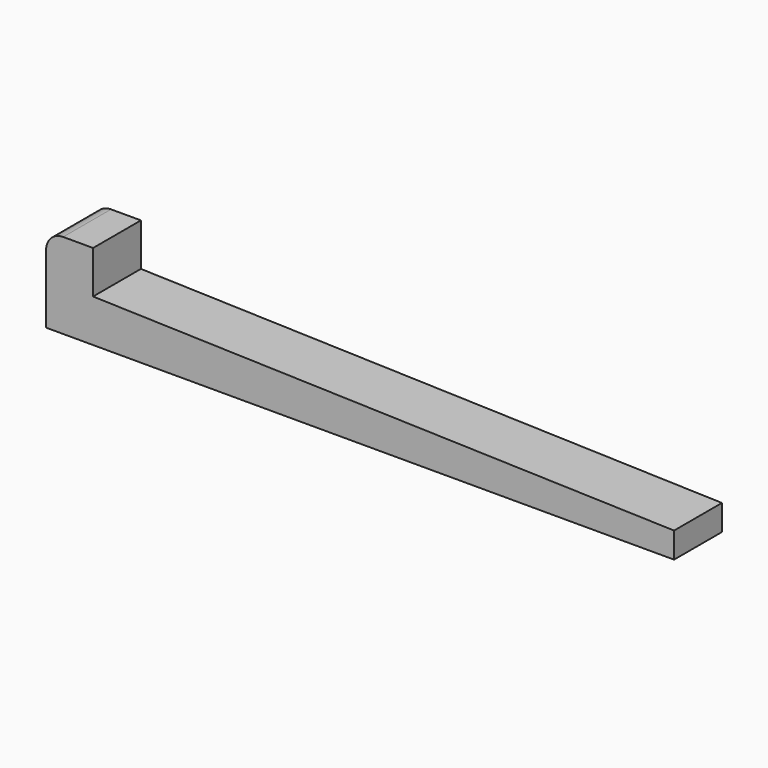
from build123d import *

# Parameters (mm, degrees)
F1_DEPTH = 11.1125


with BuildPart() as f1:
    # F0 (on Front) → F1 (new body, symmetric)
    with BuildSketch(Plane.XZ):
        with BuildLine():
            Line((-89.7438166836, 37.6072605039), (-89.7438166836, 12.2072605039))
            Line((-89.7438166836, 12.2072605039), (143.6186833164, 12.2072605039))
            Line((143.6186833164, 12.2072605039), (143.6186833164, 21.7322605039))
            Line((143.6186833164, 21.7322605039), (-72.2813166836, 28.0822605039))
            Line((-72.2813166836, 28.0822605039), (-72.2813166836, 43.9572605039))
            Line((-72.2813166836, 43.9572605039), (-83.3938166836, 43.9572605039))
            ThreePointArc((-83.3938166836, 43.9572605039), (-87.8839447442, 42.0973885645), (-89.7438166836, 37.6072605039))
        make_face()
    extrude(amount=F1_DEPTH, both=True)


solid = f1.part
